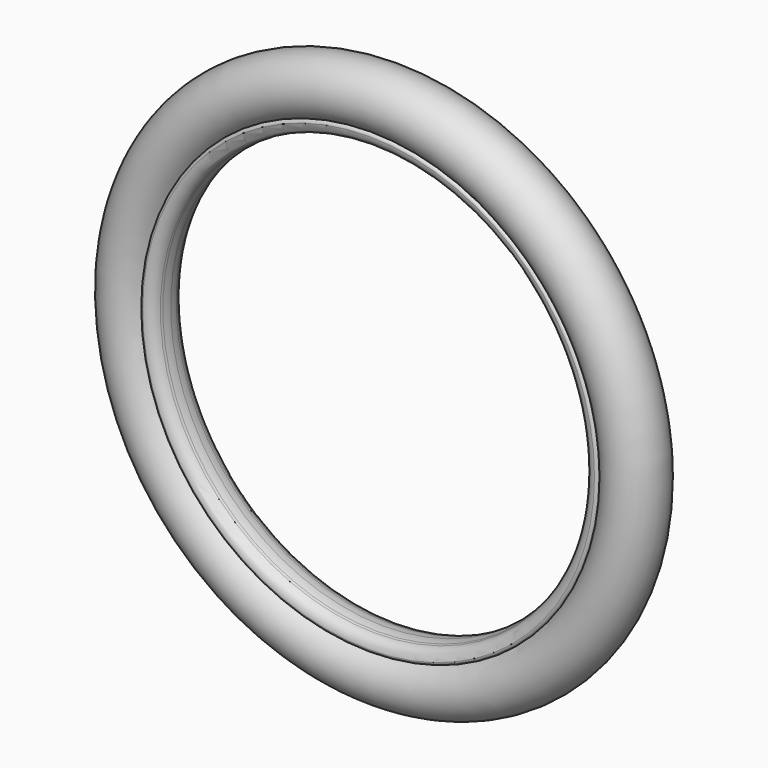
from build123d import *


with BuildPart() as f1:
    # F0 (on Right) → F1 (revolve)
    with BuildSketch(Plane.YZ):
        with BuildLine():
            Line((43.184094, 238.19311), (45.786854, 237.499987))
            ThreePointArc((45.786854, 237.499987), (50.354264, 236.578514), (55, 236.221457))
            ThreePointArc((55, 236.221457), (59.645736, 236.578514), (64.213146, 237.499987))
            Line((64.213146, 237.499987), (66.815906, 238.19311))
            ThreePointArc((66.815906, 238.19311), (73.500211, 242.576257), (76.242044, 250.084536))
            ThreePointArc((76.242044, 250.084536), (75.457152, 252.199631), (73.613589, 253.5))
            ThreePointArc((73.613589, 253.5), (55, 247.471524), (36.386411, 253.5))
            ThreePointArc((36.386411, 253.5), (34.542848, 252.199631), (33.757956, 250.084536))
            ThreePointArc((33.757956, 250.084536), (36.499789, 242.576257), (43.184094, 238.19311))
        make_face()
        with BuildLine():
            ThreePointArc((86.75, 279.221524), (40.559068, 307.497344), (36.386411, 253.5))
            ThreePointArc((36.386411, 253.5), (55, 247.471524), (73.613589, 253.5))
            ThreePointArc((73.613589, 253.5), (83.27582, 264.780592), (86.75, 279.221524))
        make_face()
    revolve(axis=Axis((0, 0.994938, 0), (0, 1, 0)))


solid = f1.part
